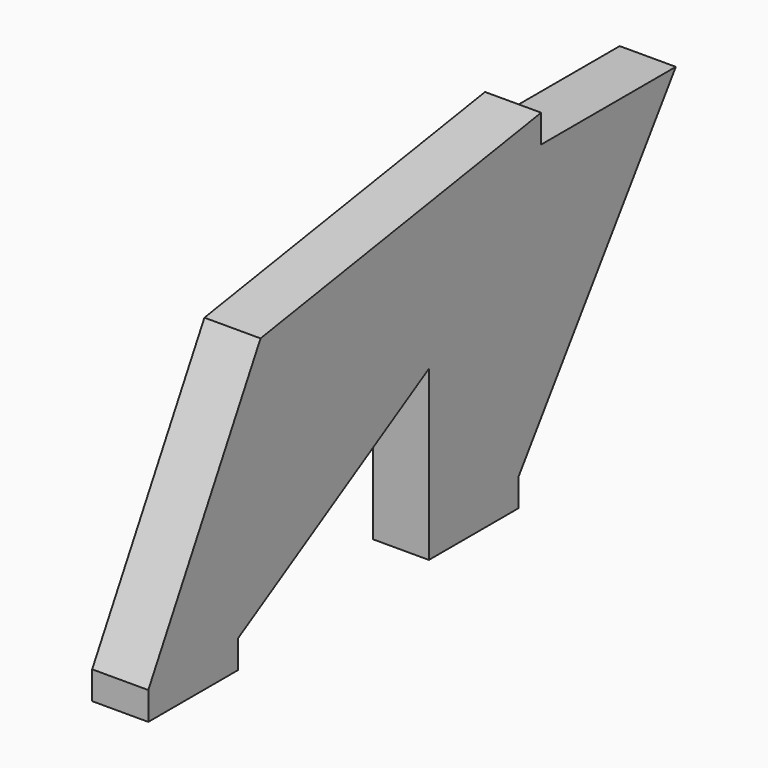
from build123d import *

# Parameters (mm, degrees)
F1_DEPTH = 12.7


with BuildPart() as f1:
    # F0 (on Right) → F1 (new body)
    with BuildSketch(Plane.YZ):
        Polygon((-66.914842, 0), (-66.914842, -6.35), (-41.514842, -6.35), (-41.514842, 0), (12.460158, 31.75), (12.460158, 0), (12.460158, -6.35), (37.860158, -6.35), (37.860158, 0), (82.310158, 63.5), (44.210158, 63.5), (44.210158, 69.85), (-35.164842, 57.15), align=None)
    extrude(amount=F1_DEPTH)


solid = f1.part
